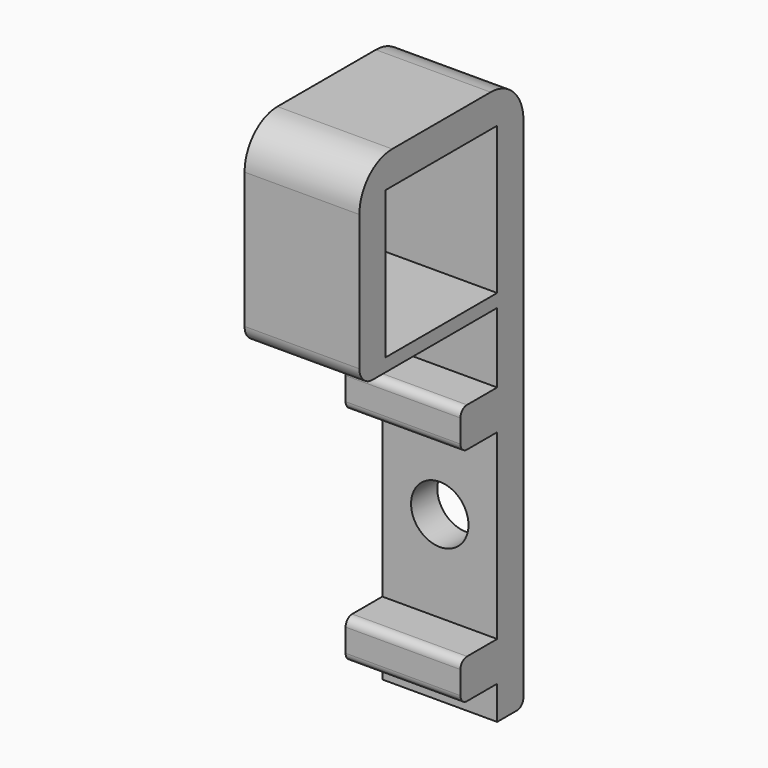
from build123d import *

# Parameters (mm, degrees)
F0_W     = 7
F0_H     = 20
F0_R     = 1.75
F1_DEPTH = 2
F3_DEPTH = 2.8
F4_R     = 0.5
F5_R     = 0.5
F6_W     = 8.5
F6_H     = 8.979
F7_DEPTH = 7
F8_R     = 2.5
F9_R     = 1


with BuildPart() as f1:
    # F0 (on Front) → F1 (new body)
    with BuildSketch(Plane.XZ):
        with Locations((3.5, 10)):
            Rectangle(F0_W, F0_H)
        with Locations((3.5, 10)):
            Circle(F0_R, mode=Mode.SUBTRACT)
    extrude(amount=F1_DEPTH)

    # F2 (on face) → F3 (join)
    with BuildSketch(Plane.XZ.offset(2)):
        Polygon((7, 4.45), (3.5, 4.45), (0, 4.45), (0, 2.05), (7, 2.05), align=None)
        Polygon((0, 15.55), (3.5, 15.55), (7, 15.55), (7, 17.95), (0, 17.95), align=None)
    extrude(amount=F3_DEPTH)

    # F4
    f4_edges = [f1.edges().sort_by_distance(p)[0] for p in [
        (3.5, -4.8, 2.05),
        (3.5, -4.8, 4.45),
        (3.5, -4.8, 15.55),
        (3.5, -4.8, 17.95),
    ]]
    fillet(f4_edges, radius=F4_R)

    # F5
    f5_edges = [f1.edges().sort_by_distance(p)[0] for p in [
        (3.5, 0, 0),
    ]]
    fillet(f5_edges, radius=F5_R)

    # F6 (on face) → F7 (join, through all)
    with BuildSketch(Plane(origin=(0, 0, 0), x_dir=(0, -1, 0), z_dir=(-1, 0, 0))):
        Polygon((0, 20), (2, 20), (2, 22.221), (11.03, 22.221), (12.5, 22.221), (12.5, 34), (0, 34), align=None)
        with Locations((6.25, 27.5105)):
            Rectangle(F6_W, F6_H, mode=Mode.SUBTRACT)
    extrude(amount=-F7_DEPTH)

    # F8
    f8_edges = [f1.edges().sort_by_distance(p)[0] for p in [
        (3.5, -12.5, 34),
        (3.5, 0, 34),
    ]]
    fillet(f8_edges, radius=F8_R)

    # F9
    f9_edges = [f1.edges().sort_by_distance(p)[0] for p in [
        (3.5, -12.5, 22.221),
    ]]
    fillet(f9_edges, radius=F9_R)


solid = f1.part
